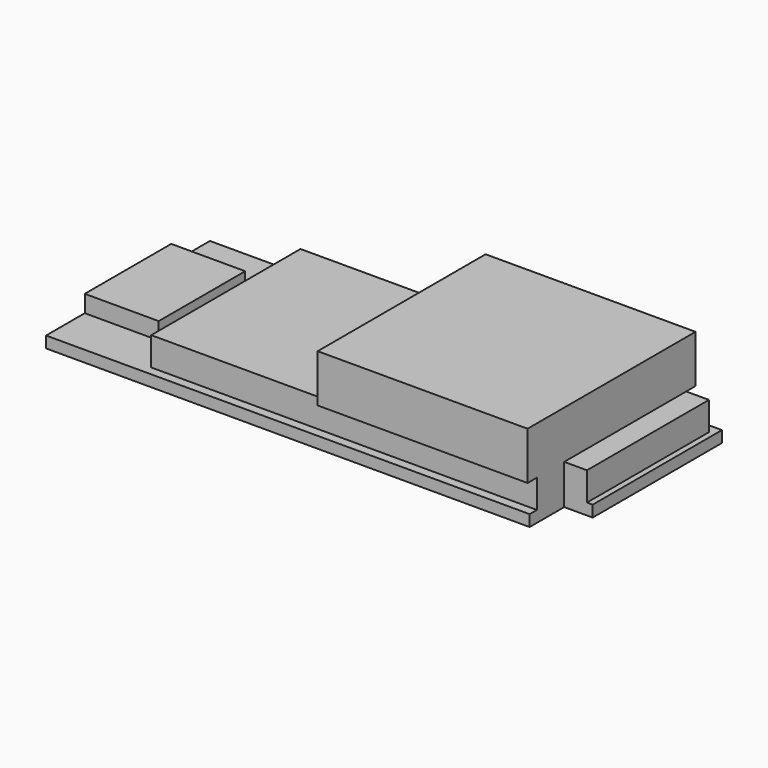
from build123d import *

# Parameters (mm, degrees)
F0_W     = 6.5
F0_H     = 9.5
F0_W_2   = 2
F0_H_2   = 13.4
F0_W_3   = 15.45
F0_H_3   = 16.4
F0_W_4   = 18.45
F0_H_4   = 0.8
F1_DEPTH = 1
F2_DEPTH = 3.5
F3_START = 3.5
F0_H_5   = 0.225
F3_DEPTH = 4.2
F4_DEPTH = 2.5


with BuildPart() as f1:
    # F0 (on Top) → F1 (new body)
    with BuildSketch(Plane.XY):
        with Locations((3.25, -9)):
            Rectangle(F0_W, F0_H)
        with Locations((43.5, -7.5)):
            Rectangle(F0_W_2, F0_H_2)
        Polygon((45, 0), (42.5, 0), (42.5, -0.8), (44.5, -0.8), (44.5, -14.2), (45, -14.2), align=None)
        with Locations((16.325, -9)):
            Rectangle(F0_W_3, F0_H_3)
        Polygon((42.5, -0.8), (24.05, -0.8), (24.05, -17.2), (42.5, -17.2), (42.5, -14.2), align=None)
        with Locations((33.275, -0.4)):
            Rectangle(F0_W_4, F0_H_4)
        Polygon((24.05, 0), (0, 0), (0, -4.25), (6.5, -4.25), (6.5, -13.75), (0, -13.75), (0, -18), (24.05, -18), (24.05, -17.2), (8.6, -17.2), (8.6, -0.8), (24.05, -0.8), align=None)
        with Locations((33.275, -17.6)):
            Rectangle(F0_W_4, F0_H_4)
    extrude(amount=F1_DEPTH)

    # F0 (on Top) → F2 (join)
    with BuildSketch(Plane.XY):
        with Locations((16.325, -9)):
            Rectangle(F0_W_3, F0_H_3)
        Polygon((42.5, -0.8), (24.05, -0.8), (24.05, -17.2), (42.5, -17.2), (42.5, -14.2), align=None)
        with Locations((43.5, -7.5)):
            Rectangle(F0_W_2, F0_H_2)
    extrude(amount=F2_DEPTH)

    # F0 (on Top) → F3 (join)
    with BuildSketch(Plane.XY.offset(F3_START)):
        with Locations((33.275, -0.4)):
            Rectangle(F0_W_4, F0_H_4)
        with Locations((33.275, 0.1125)):
            Rectangle(F0_W_4, F0_H_5)
        Polygon((42.5, -0.8), (24.05, -0.8), (24.05, -17.2), (42.5, -17.2), (42.5, -14.2), align=None)
        with Locations((33.275, -17.6)):
            Rectangle(F0_W_4, F0_H_4)
        with Locations((33.275, -18.1125)):
            Rectangle(F0_W_4, F0_H_5)
    extrude(amount=F3_DEPTH)

    # F0 (on Top) → F4 (join)
    with BuildSketch(Plane.XY):
        with Locations((3.25, -9)):
            Rectangle(F0_W, F0_H)
    extrude(amount=F4_DEPTH)


solid = f1.part
